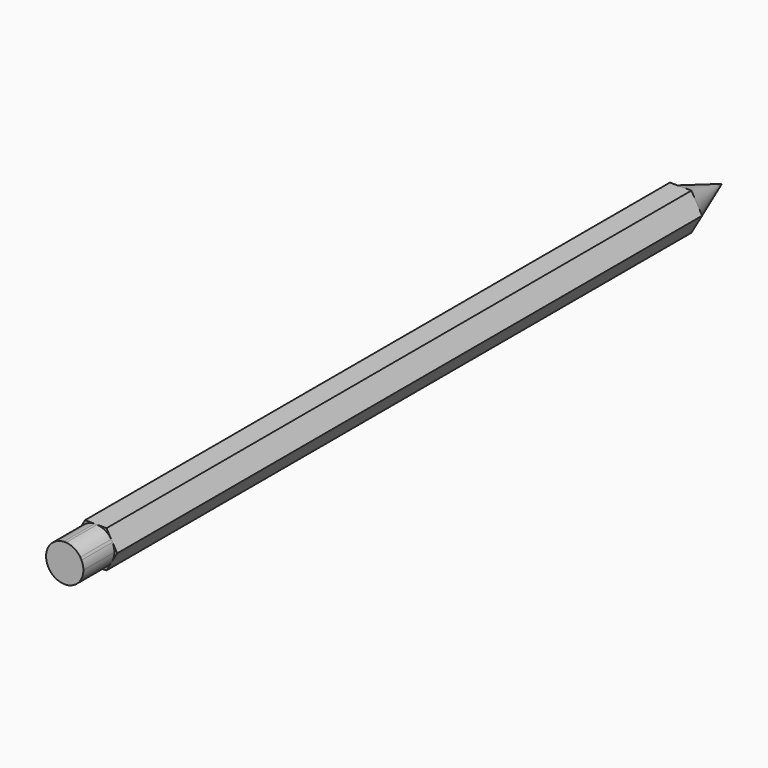
from build123d import *

# Parameters (mm, degrees)
F1_DEPTH = 170
F5_DEPTH = 9


with BuildPart() as f1:
    # F0 (on Front) → F1 (new body)
    with BuildSketch(Plane.XZ):
        Polygon((4.999971, -0.017115), (2.514808, 4.321544), (-2.485163, 4.338659), (-4.999971, 0.017115), (-2.514808, -4.321544), (2.485163, -4.338659), align=None)
    extrude(amount=F1_DEPTH)

    # F2 (on Top) → F3 (revolve)
    with BuildSketch(Plane.XY):
        Polygon((-4.33, 0), (0, 0), (0, 12), align=None)
    revolve(axis=Axis((0, 6, 0), (0, 1, 0)))

    # F4 (on face) → F5 (join)
    with BuildSketch(Plane.XZ.offset(170)):
        with BuildLine():
            ThreePointArc((3.893099, -1.919207), (4.227139, -0.985328), (4.340458, 0))
            ThreePointArc((4.340458, 0), (4.230487, 0.970853), (3.906147, 1.89251))
            Line((3.906147, 1.89251), (3.608632, 2.411919))
            ThreePointArc((3.608632, 2.411919), (2.183083, 3.751496), (0.314112, 4.329077))
            Line((0.314112, 4.329077), (-0.284467, 4.331126))
            ThreePointArc((-0.284467, 4.331126), (-2.157349, 3.766354), (-3.592035, 2.436567))
            Line((-3.592035, 2.436567), (-3.893099, 1.919207))
            ThreePointArc((-3.893099, 1.919207), (-4.340433, 0.014858), (-3.906147, -1.89251))
            Line((-3.906147, -1.89251), (-3.608632, -2.411919))
            ThreePointArc((-3.608632, -2.411919), (-2.183083, -3.751496), (-0.314112, -4.329077))
            Line((-0.314112, -4.329077), (0.284467, -4.331126))
            ThreePointArc((0.284467, -4.331126), (2.157349, -3.766354), (3.592035, -2.436567))
            Line((3.592035, -2.436567), (3.893099, -1.919207))
        make_face()
    extrude(amount=F5_DEPTH)


solid = f1.part
